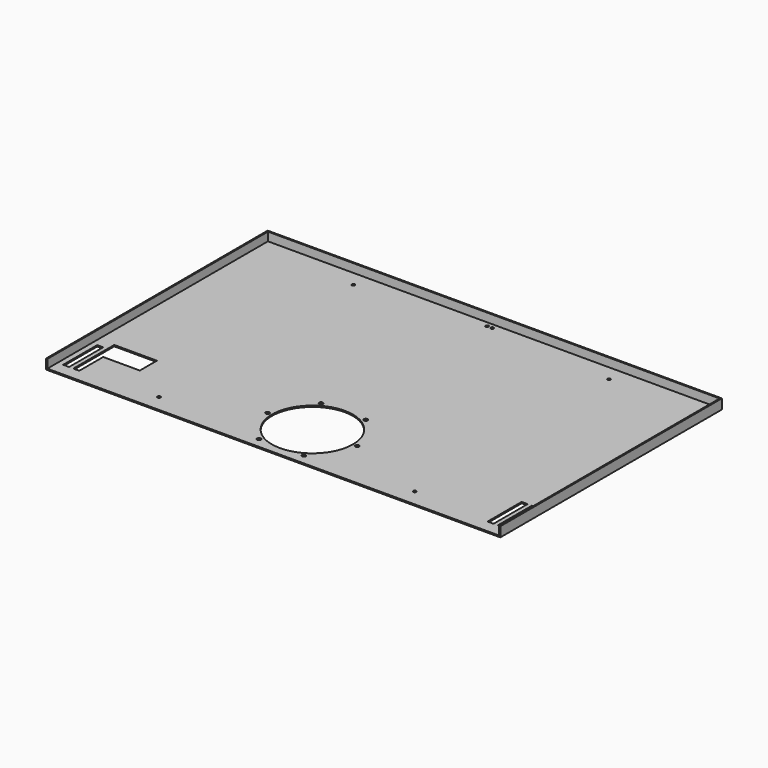
from build123d import *

# Parameters (mm, degrees)
F0_R     = 3.5
F0_R_2   = 4.5
F0_R_3   = 95
F0_W     = 14
F0_H     = 30
F1_DEPTH = 3
F3_DEPTH = 20
F4_W     = 14
F4_H     = 70
F4_H_2   = 100
F5_DEPTH = 3.001


with BuildPart() as f1:
    # F0 (on Top) → F1 (new body)
    with BuildSketch(Plane.XY):
        Polygon((533, -325), (533, 325), (-533, 325), (-533, -325), (-517, -325), (-517, -295), (-517, -195), (-503, -195), (-503, -295), (-503, -325), (503, -325), (503, -295), (503, -195), (517, -195), (517, -295), (517, -325), align=None)
        with Locations((-300, -285)):
            Circle(F0_R, mode=Mode.SUBTRACT)
        Polygon((-493, -175), (-468, -175), (-418, -175), (-393, -175), (-393, -225), (-418, -225), (-468, -225), (-493, -225), align=None, mode=Mode.SUBTRACT)
        with Locations((-52.5, -300.932667)):
            Circle(F0_R_2, mode=Mode.SUBTRACT)
        with Locations((-105, -210)):
            Circle(F0_R_2, mode=Mode.SUBTRACT)
        with Locations((-52.5, -119.067333)):
            Circle(F0_R_2, mode=Mode.SUBTRACT)
        with Locations((52.5, -300.932667)):
            Circle(F0_R_2, mode=Mode.SUBTRACT)
        with Locations((0, -210)):
            Circle(F0_R_3, mode=Mode.SUBTRACT)
        with Locations((105, -210)):
            Circle(F0_R_2, mode=Mode.SUBTRACT)
        with Locations((300, -285)):
            Circle(F0_R, mode=Mode.SUBTRACT)
        with Locations((52.5, -119.067333)):
            Circle(F0_R_2, mode=Mode.SUBTRACT)
        with Locations((-300, 285)):
            Circle(F0_R, mode=Mode.SUBTRACT)
        with Locations((-6, 310)):
            Circle(F0_R, mode=Mode.SUBTRACT)
        with Locations((6, 310)):
            Circle(F0_R, mode=Mode.SUBTRACT)
        with Locations((300, 285)):
            Circle(F0_R, mode=Mode.SUBTRACT)
        with Locations((-510, -310)):
            Rectangle(F0_W, F0_H)
        with Locations((510, -310)):
            Rectangle(F0_W, F0_H)
    extrude(amount=-F1_DEPTH)

    # F2 (on face) → F3 (join)
    with BuildSketch(Plane.XY):
        Polygon((-533, -325), (-530, -325), (-530, 322), (530, 322), (530, -325), (533, -325), (533, 325), (-533, 325), align=None)
    extrude(amount=F3_DEPTH)

    # F4 (on face) → F5 (cut, through all)
    with BuildSketch(Plane.XY):
        with Locations((-486, -260)):
            Rectangle(F4_W, F4_H)
        with Locations((486, -245)):
            Rectangle(F4_W, F4_H_2)
    extrude(amount=-F5_DEPTH, mode=Mode.SUBTRACT)


solid = f1.part
